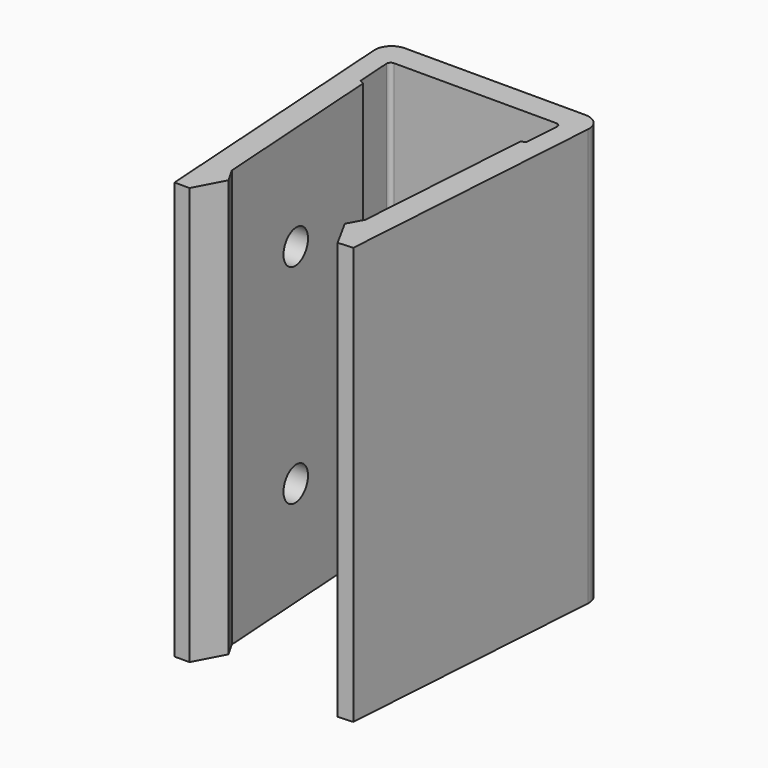
from build123d import *

# Parameters (mm, degrees)
F1_DEPTH = 50
F2_R     = 2
F3_DEPTH = 25


with BuildPart() as f1:
    # F0 (on Top) → F1 (new body)
    with BuildSketch(Plane.XY):
        with BuildLine():
            ThreePointArc((-10.218003, 18.066239), (-10.082748, 18.408666), (-9.75, 18.566239))
            Line((-9.75, 18.566239), (9.75, 18.566239))
            Line((9.75, 18.566239), (9.749928, 18.565147))
            ThreePointArc((9.749928, 18.565147), (10.093038, 18.395673), (10.215817, 18.03322))
            Line((10.215817, 18.03322), (9.937061, 13.821265))
            Line((9.937061, 13.821265), (9.419089, 13.566239))
            Line((9.419089, 13.566239), (8, -7.875915))
            Line((8, -7.875915), (7, -9.70099))
            Line((7, -9.70099), (8.880575, -13.133215))
            Line((8.880575, -13.133215), (10.666446, -13.015022))
            Line((10.666446, -13.015022), (12.814004, 19.434163))
            ThreePointArc((12.814004, 19.434163), (12.278533, 20.932959), (10.81837, 21.566239))
            Line((10.81837, 21.566239), (-10.81837, 21.566239))
            ThreePointArc((-10.81837, 21.566239), (-12.278533, 20.932959), (-12.814004, 19.434163))
            Line((-12.814004, 19.434163), (-10.658623, -13.133215))
            Line((-10.658623, -13.133215), (-8.866173, -13.133215))
            Line((-8.866173, -13.133215), (-7, -9.625915))
            Line((-7, -9.625915), (-8, -7.875915))
            Line((-8, -7.875915), (-9.419089, 13.566239))
            Line((-9.419089, 13.566239), (-9.937061, 13.821265))
            Line((-9.937061, 13.821265), (-10.218003, 18.066239))
        make_face()
    extrude(amount=F1_DEPTH)

    # F2 (on Right) → F3 (cut)
    with BuildSketch(Plane.YZ):
        with Locations((2.566239, 12.5)):
            Circle(F2_R)
        with Locations((2.566239, 37.5)):
            Circle(F2_R)
    extrude(amount=-F3_DEPTH, mode=Mode.SUBTRACT)


solid = f1.part
